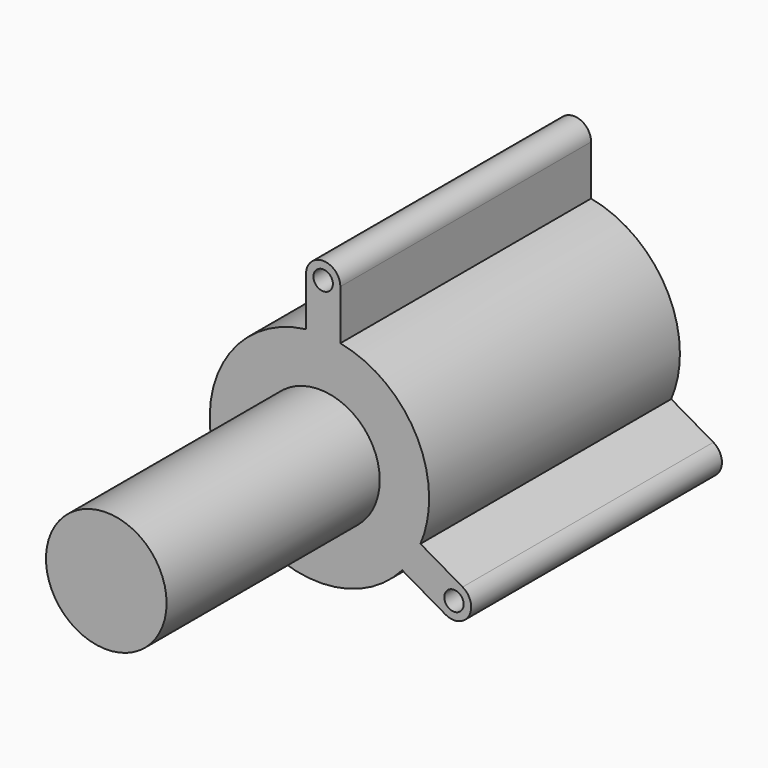
from build123d import *

# Parameters (mm, degrees)
F0_R      = 1.8579854111
F1_DEPTH  = 25
F2_DEPTH  = 25
F3_R      = 11.5448753259
F4_DEPTH  = 80
F5_DEPTH  = 3
F6_DEPTH  = 3
F7_R      = 5.3876087587
F8_DEPTH  = 25.001
F9_DEPTH  = 3
F10_DEPTH = 1
F11_DEPTH = 3


with BuildPart() as f1:
    # F0 (on Front) → F1 (new body)
    with BuildSketch(Plane.XZ):
        with BuildLine():
            ThreePointArc((19.3358495207, -8.192980124), (20.5797575294, -4.1801411498), (21, 0))
            ThreePointArc((21, 0), (16.2024401229, 13.3596756721), (4.0018158033, 20.6151757275))
            ThreePointArc((4.0018158033, 20.6151757275), (0.7235399919, 20.987531772), (-2.5725958403, 20.8418269507))
            ThreePointArc((-2.5725958403, 20.8418269507), (-17.8139656813, 11.1203698997), (-19.8541737852, -6.8419137168))
            ThreePointArc((-19.8541737852, -6.8419137168), (-18.5375056732, -9.8671618723), (-16.7632536804, -12.6488468267))
            ThreePointArc((-16.7632536804, -12.6488468267), (-0.7235399919, -20.987531772), (15.8523579818, -13.7732620107))
            ThreePointArc((15.8523579818, -13.7732620107), (17.8139656813, -11.1203698997), (19.3358495207, -8.192980124))
        make_face()
        with BuildLine():
            ThreePointArc((-2.5725958403, 20.8418269507), (0.7235399919, 20.987531772), (4.0018158033, 20.6151757275))
            Line((4.0018158033, 20.6151757275), (4.0018158033, 30.1565360278))
            ThreePointArc((4.0018158033, 30.1565360278), (0.7146099815, 33.4437418496), (-2.5725958403, 30.1565360278))
            Line((-2.5725958403, 30.1565360278), (-2.5725958403, 20.8418269507))
        make_face()
        with Locations((0.7146099815, 30.1565360278)):
            Circle(F0_R, mode=Mode.SUBTRACT)
        with BuildLine():
            ThreePointArc((-2.5725958403, 20.8418269507), (0.7235399919, 20.987531772), (4.0018158033, 20.6151757275))
            Line((4.0018158033, 20.6151757275), (4.0018158033, 30.1565360278))
            ThreePointArc((4.0018158033, 30.1565360278), (0.7146099815, 33.4437418496), (-2.5725958403, 30.1565360278))
            Line((-2.5725958403, 30.1565360278), (-2.5725958403, 20.8418269507))
        make_face()
        with Locations((0.7146099815, 30.1565360278)):
            Circle(F0_R, mode=Mode.SUBTRACT)
        with BuildLine():
            ThreePointArc((-16.7632536804, -12.6488468267), (-18.5375056732, -9.8671618723), (-19.8541737852, -6.8419137168))
            Line((-19.8541737852, -6.8419137168), (-28.1172341919, -11.6125938669))
            ThreePointArc((-28.1172341919, -11.6125938669), (-29.3204350301, -16.103000527), (-24.83002837, -17.3062013653))
            Line((-24.83002837, -17.3062013653), (-16.7632536804, -12.6488468267))
        make_face()
        with Locations((-26.473631281, -14.4593976161)):
            Circle(F0_R, mode=Mode.SUBTRACT)
        with BuildLine():
            Line((27.4026242104, -12.8503346625), (19.3358495207, -8.192980124))
            ThreePointArc((19.3358495207, -8.192980124), (17.8139656813, -11.1203698997), (15.8523579818, -13.7732620107))
            Line((15.8523579818, -13.7732620107), (24.1154183885, -18.5439421609))
            ThreePointArc((24.1154183885, -18.5439421609), (28.6058250486, -17.3407413226), (27.4026242104, -12.8503346625))
        make_face()
        with Locations((25.7590212994, -15.6971384117)):
            Circle(F0_R, mode=Mode.SUBTRACT)
    extrude(amount=F1_DEPTH)

    # F2 (add): faces of the model
    f2_faces = [f1.faces().sort_by_distance(p)[0] for p in [
        (0, 0, 0),
        (0, -25, 0),
    ]]
    extrude(f2_faces, amount=F2_DEPTH, dir=(0, 1, 0))

    # F3 (on Front) → F4 (join)
    with BuildSketch(Plane.XZ):
        Circle(F3_R)
    extrude(amount=F4_DEPTH)

    # F5 (add): faces of the model
    f5_faces = [f1.faces().sort_by_distance(p)[0] for p in [
        (0, -80, 0),
        (-1.771197573, -25, 25.4991814892),
    ]]
    extrude(f5_faces, amount=F5_DEPTH)

    # F6 (add): a face of the model
    f6_faces = [f1.faces().sort_by_distance(p)[0] for p in [
        (-1.771197573, -28, 25.4991814892),
    ]]
    extrude(f6_faces, amount=F6_DEPTH)

    # F7 (on Front) → F8 (cut, through all)
    with BuildSketch(Plane.XZ):
        Circle(F7_R)
    extrude(amount=-F8_DEPTH, mode=Mode.SUBTRACT)

    # F9 (add): a face of the model
    f9_faces = [f1.faces().sort_by_distance(p)[0] for p in [
        (-1.771197573, -31, 25.4991814892),
    ]]
    extrude(f9_faces, amount=F9_DEPTH)

    # F10 (add): a face of the model
    f10_faces = [f1.faces().sort_by_distance(p)[0] for p in [
        (-1.771197573, -34, 25.4991814892),
    ]]
    extrude(f10_faces, amount=F10_DEPTH)

    # F11 (add): a face of the model
    f11_faces = [f1.faces().sort_by_distance(p)[0] for p in [
        (0, -83, 0),
    ]]
    extrude(f11_faces, amount=F11_DEPTH)


solid = f1.part
